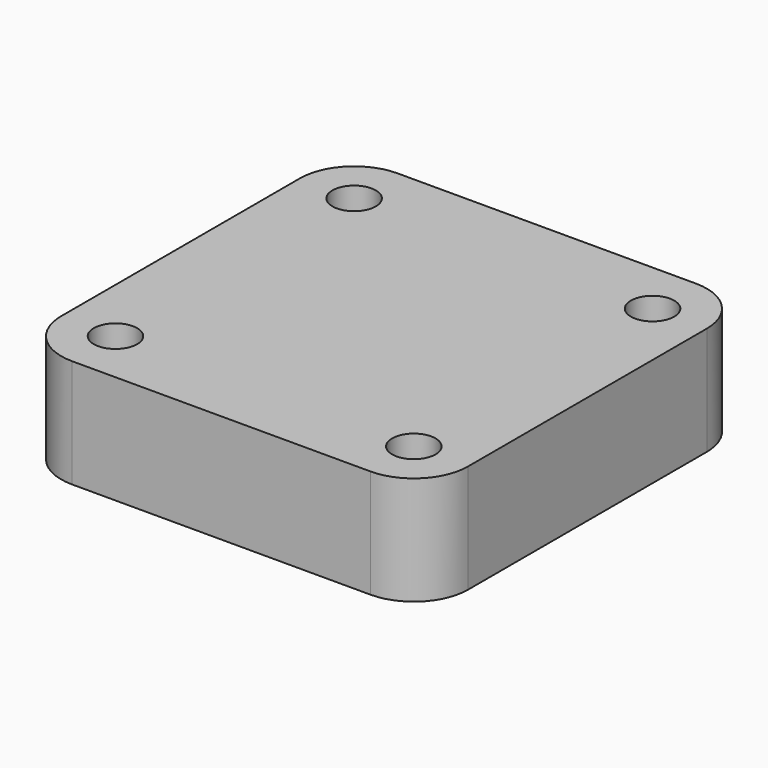
from build123d import *

# Parameters (mm, degrees)
F0_W     = 37.5
F0_H     = 37.5
F0_R     = 2
F1_DEPTH = 10
F2_R     = 5


with BuildPart() as f1:
    # F0 (on Top) → F1 (new body)
    with BuildSketch(Plane.XY):
        with Locations((18.75, 18.75)):
            Rectangle(F0_W, F0_H)
        with Locations((5, 5)):
            Circle(F0_R, mode=Mode.SUBTRACT)
        with Locations((32.5, 5)):
            Circle(F0_R, mode=Mode.SUBTRACT)
        with Locations((5, 32.5)):
            Circle(F0_R, mode=Mode.SUBTRACT)
        with Locations((32.5, 32.5)):
            Circle(F0_R, mode=Mode.SUBTRACT)
    extrude(amount=F1_DEPTH)

    # F2
    f2_edges = [f1.edges().sort_by_distance(p)[0] for p in [
        (37.5, 0, 5),
        (37.5, 37.5, 5),
        (0, 37.5, 5),
        (0, 0, 5),
    ]]
    fillet(f2_edges, radius=F2_R)


solid = f1.part
